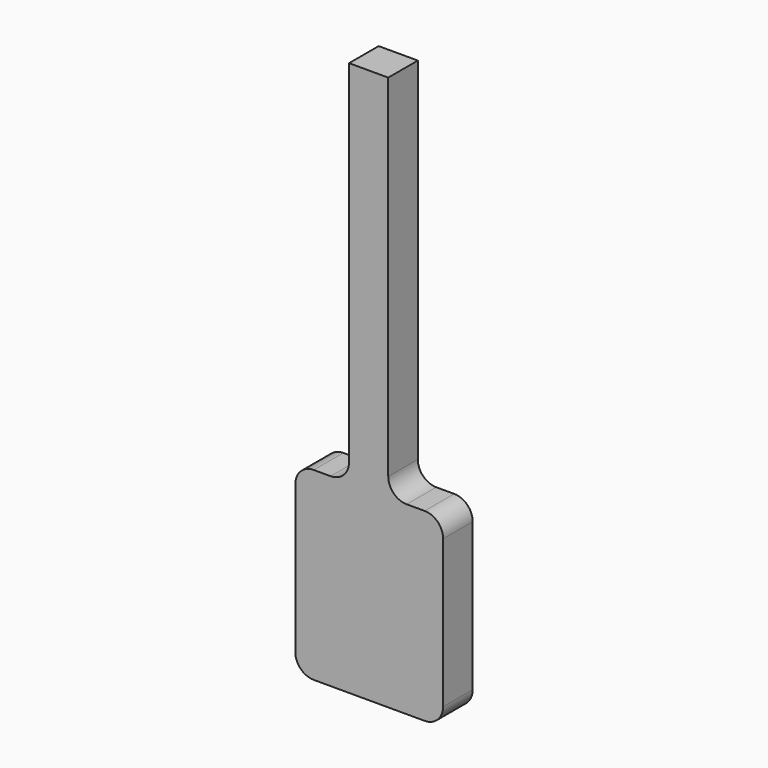
from build123d import *

# Parameters (mm, degrees)
F1_DEPTH = 5


with BuildPart() as f1:
    # F0 (on Front) → F1 (new body)
    with BuildSketch(Plane.XZ):
        with BuildLine():
            ThreePointArc((-10, -10), (-9.267767, -11.767767), (-7.5, -12.5))
            Line((-7.5, -12.5), (7.5, -12.5))
            ThreePointArc((7.5, -12.5), (9.267767, -11.767767), (10, -10))
            Line((10, -10), (10, 10))
            ThreePointArc((10, 10), (9.267767, 11.767767), (7.5, 12.5))
            Line((7.5, 12.5), (5.074448, 12.5))
            ThreePointArc((5.074448, 12.5), (3.306681, 13.232233), (2.574448, 15))
            Line((2.574448, 15), (2.574448, 62.5))
            Line((2.574448, 62.5), (-2.722075, 62.5))
            Line((-2.722075, 62.5), (-2.722075, 15))
            ThreePointArc((-2.722075, 15), (-3.454308, 13.232233), (-5.222075, 12.5))
            Line((-5.222075, 12.5), (-7.5, 12.5))
            ThreePointArc((-7.5, 12.5), (-9.267767, 11.767767), (-10, 10))
            Line((-10, 10), (-10, -10))
        make_face()
    extrude(amount=F1_DEPTH)


solid = f1.part
